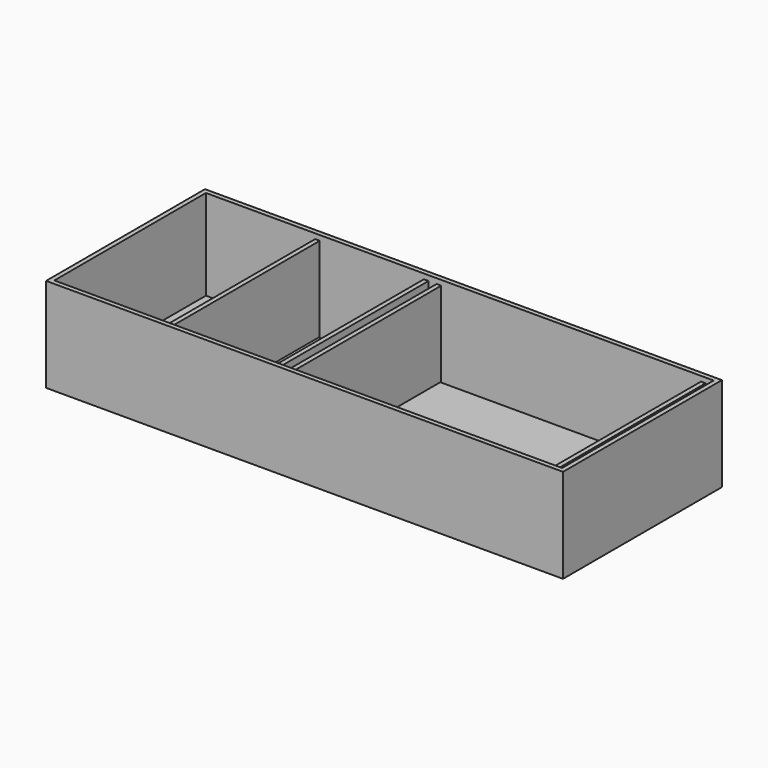
from build123d import *

# Parameters (mm, degrees)
F6_W           = 18
F6_H           = 744
F13_DEPTH      = 332
F14_DEPTH      = 370
F15_DEPTH      = 370
F8_W           = 1994
F8_H           = 15
F16_DEPTH      = 744
F17_DEPTH      = 850
F17_DEPTH_BACK = 850
F18_DEPTH      = 850
F18_DEPTH_BACK = 850


with BuildPart() as f13:
    # F6 (on offset) → F13 (new body)
    with BuildSketch(Plane.XY.offset(-20)):
        with Locations((956, 0)):
            Rectangle(F6_W, F6_H)
    extrude(amount=-F13_DEPTH)



with BuildPart() as f13b:
    # F6 (on offset) → F13, piece 2 (new body)
    with BuildSketch(Plane.XY.offset(-20)):
        with Locations((-82, 0)):
            Rectangle(F6_W, F6_H)
    extrude(amount=-F13_DEPTH)


with BuildPart() as f13c:
    # F6 (on offset) → F13, piece 3 (new body)
    with BuildSketch(Plane.XY.offset(-20)):
        with Locations((-132, 0)):
            Rectangle(F6_W, F6_H)
    extrude(amount=-F13_DEPTH)


with BuildPart() as f13d:
    # F6 (on offset) → F13, piece 4 (new body)
    with BuildSketch(Plane.XY.offset(-20)):
        with Locations((-559, 0)):
            Rectangle(F6_W, F6_H)
    extrude(amount=-F13_DEPTH)


with BuildPart() as f14:
    # F2 (on Top) → F14 (new body)
    with BuildSketch(Plane.XY):
        Polygon((-997, 372), (-1015, 390), (-1015, -390), (-997, -372), align=None)
    extrude(amount=-F14_DEPTH)


with BuildPart() as f14b:
    # F2 (on Top) → F14, piece 2 (new body)
    with BuildSketch(Plane.XY):
        Polygon((1015, -390), (1015, 390), (997, 372), (997, -372), align=None)
    extrude(amount=-F14_DEPTH)


with BuildPart() as f13_1:
    add(f13.part)

    add(f13b.part)  # F15 merges F13b

    add(f13c.part)  # F15 merges F13c

    add(f13d.part)  # F15 merges F13d

    add(f14.part)  # F15 merges F14

    add(f14b.part)  # F15 merges F14b
    # F2 (on Top) → F15 (join)
    with BuildSketch(Plane.XY):
        Polygon((1015, 390), (-1015, 390), (-997, 372), (-568, 372), (-550, 372), (-141, 372), (-123, 372), (-91, 372), (-73, 372), (947, 372), (965, 372), (997, 372), align=None)
        Polygon((-997, -372), (-1015, -390), (1015, -390), (997, -372), (965, -372), (947, -372), (-73, -372), (-91, -372), (-123, -372), (-141, -372), (-550, -372), (-568, -372), align=None)
    extrude(amount=-F15_DEPTH)

    # F8 (on offset) → F16 (join)
    with BuildSketch(Plane(origin=(0, -372, 0), x_dir=(-1, 0, 0), z_dir=(0, 1, 0))):
        with Locations((0, -362.5)):
            Rectangle(F8_W, F8_H)
    extrude(amount=F16_DEPTH)


with BuildPart() as f17:
    # F12 (on line) → F17 (new body, two sides)
    with BuildSketch(Plane.YZ) as f17_sk:
        Polygon((310, -385), (310, -370), (225, -370), (210, -385), align=None)
    extrude(amount=F17_DEPTH)
    extrude(f17_sk.sketch, amount=-F17_DEPTH_BACK)


with BuildPart() as f17b:
    # F12 (on line) → F17, piece 2 (new body, two sides)
    with BuildSketch(Plane.YZ) as f17_2_sk:
        Polygon((-110, -385), (-110, -370), (-195, -370), (-210, -385), align=None)
    extrude(amount=F17_DEPTH)
    extrude(f17_2_sk.sketch, amount=-F17_DEPTH_BACK)


with BuildPart() as f18:
    # F12 (on line) → F18 (new body, two sides)
    with BuildSketch(Plane.YZ) as f18_sk:
        Polygon((-210, -385), (-195, -370), (-310, -370), (-310, -385), align=None)
    extrude(amount=F18_DEPTH)
    extrude(f18_sk.sketch, amount=-F18_DEPTH_BACK)


with BuildPart() as f18b:
    # F12 (on line) → F18, piece 2 (new body, two sides)
    with BuildSketch(Plane.YZ) as f18_2_sk:
        Polygon((210, -385), (225, -370), (110, -370), (110, -385), align=None)
    extrude(amount=F18_DEPTH)
    extrude(f18_2_sk.sketch, amount=-F18_DEPTH_BACK)


solid = Compound([f13_1.part, f17.part, f17b.part, f18.part, f18b.part])
